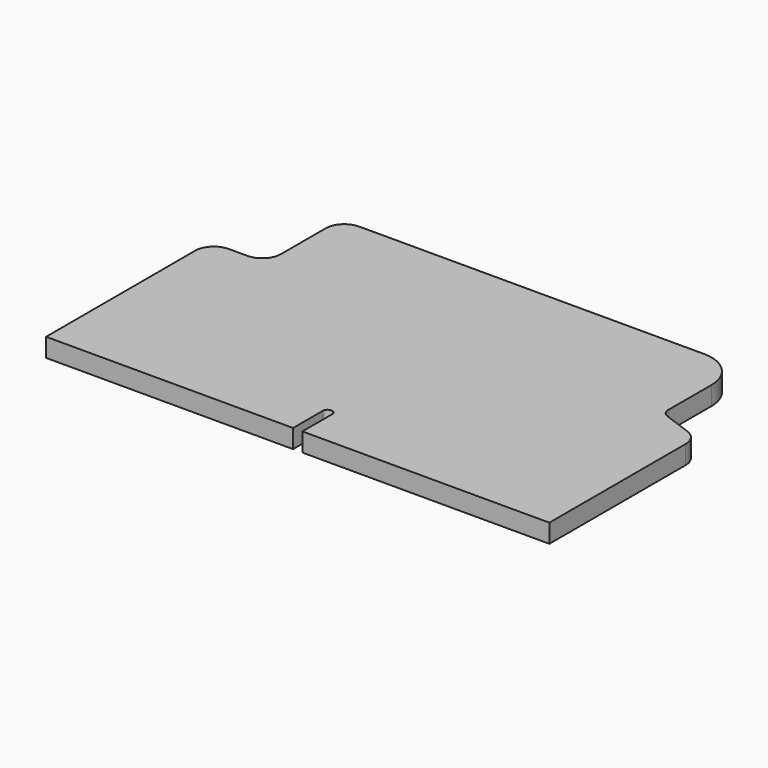
from build123d import *

# Parameters (mm, degrees)
F0_W      = 698.5
F0_H      = 406.4
F1_DEPTH  = 25.4
F3_DEPTH  = 25.4
F4_W      = 12.7
F4_H      = 254
F5_DEPTH  = 25.4
F6_R      = 50.8
F7_W      = 76.2
F7_H      = 127
F8_DEPTH  = 25.4
F9_R      = 25.4
F10_R     = 25.4
F12_DEPTH = 25.401


with BuildPart() as f1:
    # F0 (on Top) → F1 (new body)
    with BuildSketch(Plane.XY):
        with Locations((62.9796185677, -1.3083405793)):
            Rectangle(F0_W, F0_H)
    extrude(amount=F1_DEPTH)

    # F2 (on face) → F3 (cut)
    with BuildSketch(Plane.XY.offset(25.4)):
        with BuildLine():
            Line((336.0296185677, 284.5435195792), (336.0296185677, 77.4316594207))
            ThreePointArc((336.0296185677, 77.4316594207), (338.3263876052, 70.1472386791), (344.3859627474, 65.4975631367))
            Line((344.3859627474, 65.4975631367), (488.1807398124, 13.1605444421))
            Line((488.1807398124, 13.1605444421), (504.1641078178, 284.5435195792))
            Line((504.1641078178, 284.5435195792), (336.0296185677, 284.5435195792))
        make_face()
    extrude(amount=-F3_DEPTH, mode=Mode.SUBTRACT)

    # F4 (on face) → F5 (cut)
    with BuildSketch(Plane.XY.offset(25.4)):
        with Locations((405.8796185677, -77.5083405793)):
            Rectangle(F4_W, F4_H)
    extrude(amount=-F5_DEPTH, mode=Mode.SUBTRACT)

    # F6
    f6_edges = [f1.edges().sort_by_distance(p)[0] for p in [
        (336.029619, 201.891659, 12.7),
    ]]
    fillet(f6_edges, radius=F6_R)

    # F7 (on face) → F8 (cut)
    with BuildSketch(Plane.XY.offset(25.4)):
        with Locations((-248.1703814323, 138.3916594207)):
            Rectangle(F7_W, F7_H)
    extrude(amount=-F8_DEPTH, mode=Mode.SUBTRACT)

    # F9
    f9_edges = [f1.edges().sort_by_distance(p)[0] for p in [
        (-210.070381, 74.891659, 12.7),
    ]]
    fillet(f9_edges, radius=F9_R)

    # F10
    f10_edges = [f1.edges().sort_by_distance(p)[0] for p in [
        (-210.070381, 201.891659, 12.7),
        (-286.270381, 74.891659, 12.7),
        (399.529619, 45.426914, 12.7),
    ]]
    fillet(f10_edges, radius=F10_R)

    # F11 (on face) → F12 (cut, through all)
    with BuildSketch(Plane.XY.offset(25.4)):
        with BuildLine():
            Line((62.9796185677, -212.4609104405), (62.9796185677, -153.7083405793))
            ThreePointArc((62.9796185677, -153.7083405793), (56.6296185677, -147.3583405793), (50.2796185677, -153.7083405793))
            Line((50.2796185677, -153.7083405793), (50.2796185677, -204.7673902215))
            Line((50.2796185677, -204.7673902215), (62.9796185677, -212.4609104405))
        make_face()
    extrude(amount=-F12_DEPTH, mode=Mode.SUBTRACT)


solid = f1.part
